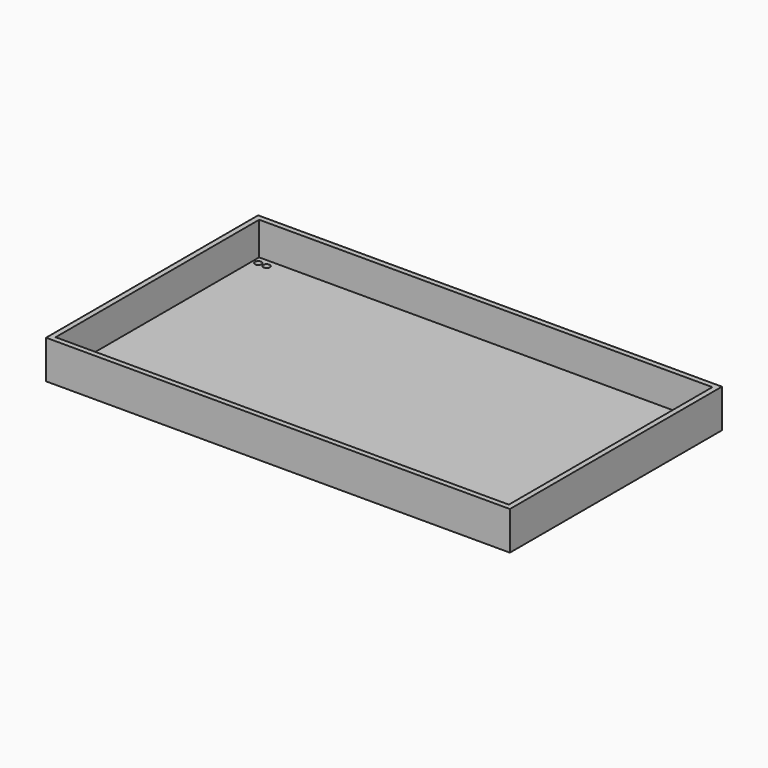
from build123d import *

# Parameters (mm, degrees)
F1_DEPTH = 4.064
F3_D     = 5.08
F4_W     = 347.472
F4_H     = 195.072
F5_DEPTH = 25.4
F7_D     = 5.08


with BuildPart() as f1:
    # F0 (on Top) → F1 (new body)
    with BuildSketch(Plane.XY):
        Polygon((181.124512, 101.6), (-174.475488, 101.6), (-174.475488, 88.9), (-174.475488, -101.6), (181.124512, -101.6), (181.124512, 88.9), align=None)
    extrude(amount=F1_DEPTH)

    # F3 (through all)
    with Locations(Plane(origin=(0, 0, 0), x_dir=(1, 0, 0), z_dir=(0, 0, -1))):
        with Locations((-166.220488, -91.44), (170.964512, -91.44), (-164.315488, 91.44), (170.964512, 91.44)):
            Hole(F3_D / 2)

    # F4 (on face) → F5 (join)
    with BuildSketch(Plane.XY.offset(4.064)):
        Polygon((181.124512, 101.6), (177.060512, 101.6), (-174.475488, 101.6), (-174.475488, -101.6), (181.124512, -101.6), align=None)
        with Locations((3.324512, 0)):
            Rectangle(F4_W, F4_H, mode=Mode.SUBTRACT)
    extrude(amount=F5_DEPTH)

    # F7 (through all)
    with Locations(Plane.XY.offset(4.064)):
        with Locations((-156.060488, -91.44), (164.614512, -91.44), (164.614512, 91.44), (-159.870488, 91.44)):
            Hole(F7_D / 2)


solid = f1.part
